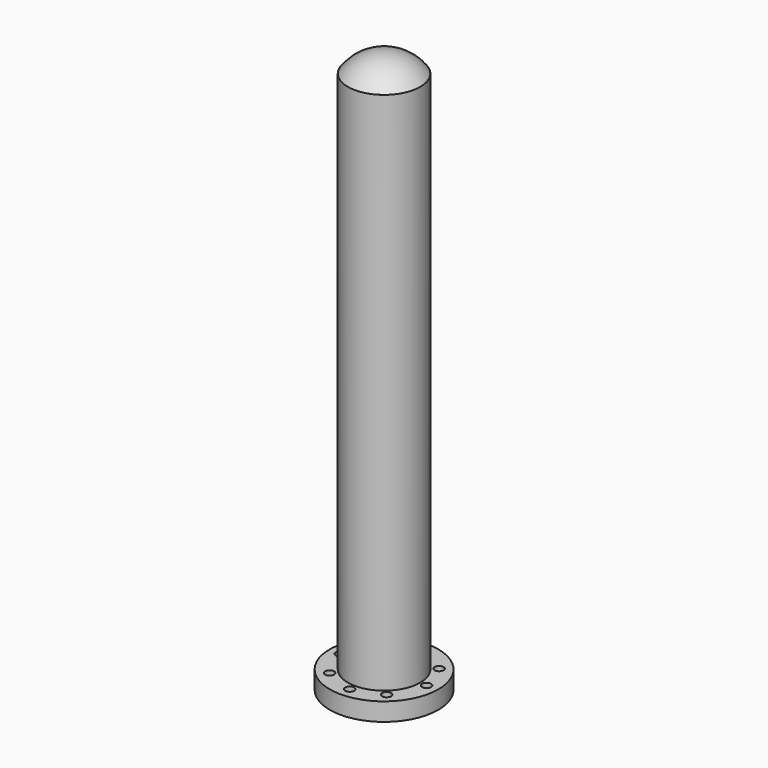
from build123d import *

# Parameters (mm, degrees)
F0_R      = 20
F1_DEPTH  = 300
F2_R      = 15
F3_DEPTH  = 295
F4_R      = 1
F5_DEPTH  = 300
F9_R      = 25
F10_DEPTH = 10
F12_R     = 30
F12_R_2   = 15
F13_DEPTH = 10
F14_R     = 2.5
F15_DEPTH = 17.9


with BuildPart() as f1:
    # F0 (on Top) → F1 (new body)
    with BuildSketch(Plane.XY):
        Circle(F0_R)
    extrude(amount=F1_DEPTH)

    # F2 (on Top) → F3 (cut)
    with BuildSketch(Plane.XY):
        Circle(F2_R)
    extrude(amount=F3_DEPTH, mode=Mode.SUBTRACT)

    # F4 (on face) → F5 (cut)
    with BuildSketch(Plane(origin=(0, 0, 295), x_dir=(1, 0, 0), z_dir=(0, 0, -1))):
        Circle(F4_R)
    extrude(amount=-F5_DEPTH, mode=Mode.SUBTRACT)

    # F7 (on Front) → F8 (revolve)
    with BuildSketch(Plane.XZ):
        with BuildLine():
            Line((0, 305), (0, 310))
            ThreePointArc((0, 310), (-11.24255, 307.50744), (-19.974453, 300))
            Line((-19.974453, 300), (-14.974453, 300))
            ThreePointArc((-14.974453, 300), (-7.92266, 303.804075), (0, 305))
        make_face()
    revolve(axis=Axis((0, 0, 305), (0, 0, 1)))

    # F12 (on face) → F13 (join)
    with BuildSketch(Plane(origin=(0, 0, 0), x_dir=(1, 0, 0), z_dir=(0, 0, -1))):
        Circle(F12_R)
        Circle(F12_R_2, mode=Mode.SUBTRACT)
    extrude(amount=-F13_DEPTH)

    # F14 (on face) → F15 (cut)
    with BuildSketch(Plane(origin=(0, 0, 0), x_dir=(1, 0, 0), z_dir=(0, 0, -1))):
        with Locations((0, 23.75)):
            Circle(F14_R)
        with Locations((0, -23.75)):
            Circle(F14_R)
        with Locations((23.747855, 0.319184)):
            Circle(F14_R)
        with Locations((-23.744081, 0.530209)):
            Circle(F14_R)
        with Locations((-16.238643, 17.331156)):
            Circle(F14_R)
        with Locations((18.139021, -15.330962)):
            Circle(F14_R)
        with Locations((15.675465, 17.84215)):
            Circle(F14_R)
        with Locations((-17.113202, -16.468176)):
            Circle(F14_R)
    extrude(amount=-F15_DEPTH, mode=Mode.SUBTRACT)


with BuildPart() as f10:
    # F9 (on face) → F10 (new body)
    with BuildSketch(Plane(origin=(0, 0, 0), x_dir=(1, 0, 0), z_dir=(0, 0, -1))):
        Circle(F9_R)
    extrude(amount=-F10_DEPTH)


solid = f1.part
